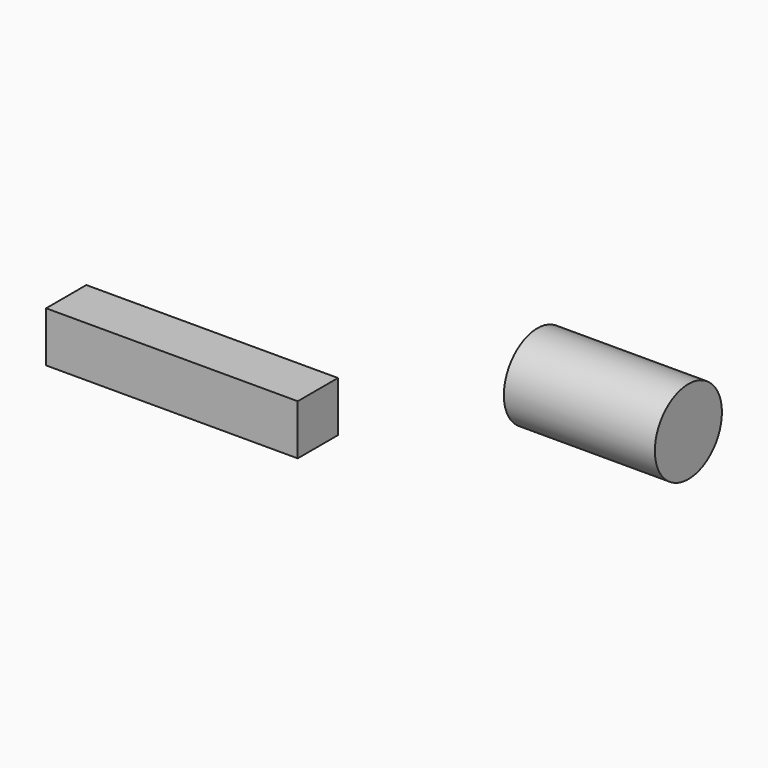
from build123d import *

# Parameters (mm, degrees)
F0_W     = 1270
F0_H     = 254
F1_DEPTH = 254
F2_R     = 211.577184
F3_DEPTH = 762


with BuildPart() as f1:
    # F0 (on Front) → F1 (new body)
    with BuildSketch(Plane.XZ):
        with Locations((-635, -117.601372)):
            Rectangle(F0_W, F0_H)
    extrude(amount=F1_DEPTH)


with BuildPart() as f3:
    # F2 (on Right) → F3 (new body)
    with BuildSketch(Plane.YZ):
        with Locations((1257.773042, -492.196351)):
            Circle(F2_R)
    extrude(amount=F3_DEPTH)


solid = Compound([f1.part, f3.part])
